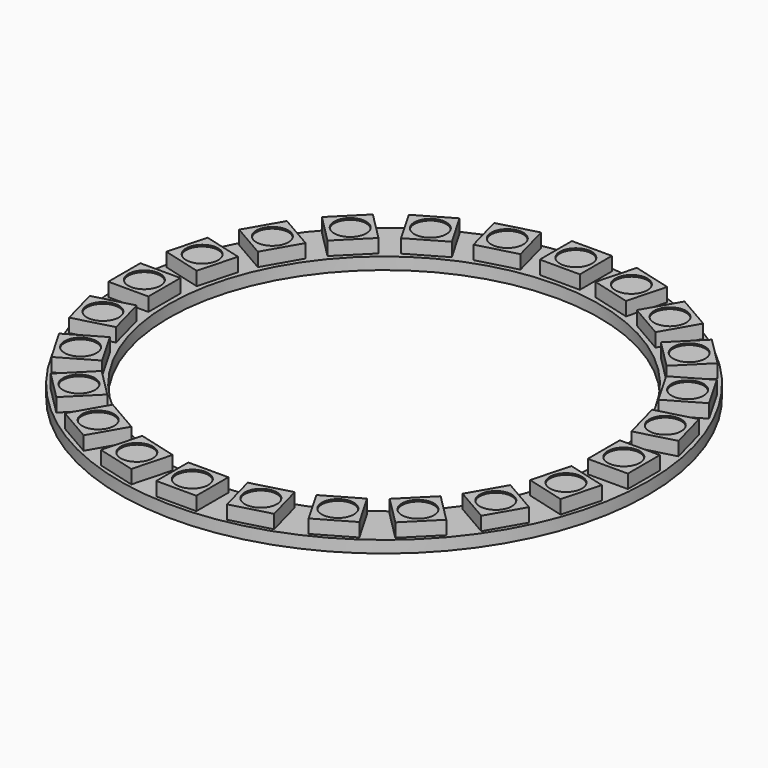
from build123d import *

# Parameters (mm, degrees)
F3_R     = 32.95
F3_W     = 5
F3_H     = 5
F3_R_2   = 26.9
F3_R_3   = 2
F4_DEPTH = 1.5
F5_DEPTH = 1.7
F6_DEPTH = 1.5


with BuildPart() as f4:
    # F3 (on Top) → F4 (new body)
    with BuildSketch(Plane.XY):
        Circle(F3_R)
        Polygon((-17.6246365211, -21.160170427), (-21.160170427, -24.6957043329), (-24.6957043329, -21.160170427), (-21.160170427, -17.6246365211), align=None, mode=Mode.SUBTRACT)
        Polygon((-11.5474364905, -25.0007466988), (-14.0474364905, -29.3308737177), (-18.3775635095, -26.8308737177), (-15.8775635095, -22.5007466988), align=None, mode=Mode.SUBTRACT)
        Polygon((-4.6832977462, -27.1375633987), (-5.9773929717, -31.9671925302), (-10.8070221032, -30.6730973047), (-9.5129268777, -25.8434681732), align=None, mode=Mode.SUBTRACT)
        Polygon((-22.5007466988, -15.8775635095), (-26.8308737177, -18.3775635095), (-29.3308737177, -14.0474364905), (-25.0007466988, -11.5474364905), align=None, mode=Mode.SUBTRACT)
        Polygon((-25.8434681732, -9.5129268777), (-30.6730973047, -10.8070221032), (-31.9671925302, -5.9773929717), (-27.1375633987, -4.6832977462), align=None, mode=Mode.SUBTRACT)
        with Locations((0, -29.925)):
            Rectangle(F3_W, F3_H, mode=Mode.SUBTRACT)
        Polygon((9.5129268777, -25.8434681732), (10.8070221032, -30.6730973047), (5.9773929717, -31.9671925302), (4.6832977462, -27.1375633987), align=None, mode=Mode.SUBTRACT)
        Polygon((15.8775635095, -22.5007466988), (18.3775635095, -26.8308737177), (14.0474364905, -29.3308737177), (11.5474364905, -25.0007466988), align=None, mode=Mode.SUBTRACT)
        Polygon((21.160170427, -17.6246365211), (24.6957043329, -21.160170427), (21.160170427, -24.6957043329), (17.6246365211, -21.160170427), align=None, mode=Mode.SUBTRACT)
        Polygon((25.0007466988, -11.5474364905), (29.3308737177, -14.0474364905), (26.8308737177, -18.3775635095), (22.5007466988, -15.8775635095), align=None, mode=Mode.SUBTRACT)
        Polygon((27.1375633987, -4.6832977462), (31.9671925302, -5.9773929717), (30.6730973047, -10.8070221032), (25.8434681732, -9.5129268777), align=None, mode=Mode.SUBTRACT)
        with Locations((-29.925, 0)):
            Rectangle(F3_W, F3_H, mode=Mode.SUBTRACT)
        Polygon((-27.1375633987, 4.6832977462), (-31.9671925302, 5.9773929717), (-30.6730973047, 10.8070221032), (-25.8434681732, 9.5129268777), align=None, mode=Mode.SUBTRACT)
        Polygon((-25.0007466988, 11.5474364905), (-29.3308737177, 14.0474364905), (-26.8308737177, 18.3775635095), (-22.5007466988, 15.8775635095), align=None, mode=Mode.SUBTRACT)
        Polygon((-21.160170427, 17.6246365211), (-24.6957043329, 21.160170427), (-21.160170427, 24.6957043329), (-17.6246365211, 21.160170427), align=None, mode=Mode.SUBTRACT)
        Polygon((-15.8775635095, 22.5007466988), (-18.3775635095, 26.8308737177), (-14.0474364905, 29.3308737177), (-11.5474364905, 25.0007466988), align=None, mode=Mode.SUBTRACT)
        Polygon((-9.5129268777, 25.8434681732), (-10.8070221032, 30.6730973047), (-5.9773929717, 31.9671925302), (-4.6832977462, 27.1375633987), align=None, mode=Mode.SUBTRACT)
        Circle(F3_R_2, mode=Mode.SUBTRACT)
        with Locations((29.925, 0)):
            Rectangle(F3_W, F3_H, mode=Mode.SUBTRACT)
        Polygon((25.8434681732, 9.5129268777), (30.6730973047, 10.8070221032), (31.9671925302, 5.9773929717), (27.1375633987, 4.6832977462), align=None, mode=Mode.SUBTRACT)
        Polygon((22.5007466988, 15.8775635095), (26.8308737177, 18.3775635095), (29.3308737177, 14.0474364905), (25.0007466988, 11.5474364905), align=None, mode=Mode.SUBTRACT)
        with Locations((0, 29.925)):
            Rectangle(F3_W, F3_H, mode=Mode.SUBTRACT)
        Polygon((4.6832977462, 27.1375633987), (5.9773929717, 31.9671925302), (10.8070221032, 30.6730973047), (9.5129268777, 25.8434681732), align=None, mode=Mode.SUBTRACT)
        Polygon((11.5474364905, 25.0007466988), (14.0474364905, 29.3308737177), (18.3775635095, 26.8308737177), (15.8775635095, 22.5007466988), align=None, mode=Mode.SUBTRACT)
        Polygon((17.6246365211, 21.160170427), (21.160170427, 24.6957043329), (24.6957043329, 21.160170427), (21.160170427, 17.6246365211), align=None, mode=Mode.SUBTRACT)
        Polygon((-21.160170427, 24.6957043329), (-24.6957043329, 21.160170427), (-21.160170427, 17.6246365211), (-17.6246365211, 21.160170427), align=None)
        with Locations((-21.160170427, 21.160170427)):
            Circle(F3_R_3, mode=Mode.SUBTRACT)
        Polygon((-14.0474364905, 29.3308737177), (-18.3775635095, 26.8308737177), (-15.8775635095, 22.5007466988), (-11.5474364905, 25.0007466988), align=None)
        with Locations((-14.9625, 25.9158102082)):
            Circle(F3_R_3, mode=Mode.SUBTRACT)
        Polygon((-5.9773929717, 31.9671925302), (-10.8070221032, 30.6730973047), (-9.5129268777, 25.8434681732), (-4.6832977462, 27.1375633987), align=None)
        with Locations((-7.7451599247, 28.9053303517)):
            Circle(F3_R_3, mode=Mode.SUBTRACT)
        with Locations((0, 29.925)):
            Rectangle(F3_W, F3_H)
        with Locations((0, 29.925)):
            Circle(F3_R_3, mode=Mode.SUBTRACT)
        Polygon((10.8070221032, 30.6730973047), (5.9773929717, 31.9671925302), (4.6832977462, 27.1375633987), (9.5129268777, 25.8434681732), align=None)
        with Locations((7.7451599247, 28.9053303517)):
            Circle(F3_R_3, mode=Mode.SUBTRACT)
        Polygon((18.3775635095, 26.8308737177), (14.0474364905, 29.3308737177), (11.5474364905, 25.0007466988), (15.8775635095, 22.5007466988), align=None)
        with Locations((14.9625, 25.9158102082)):
            Circle(F3_R_3, mode=Mode.SUBTRACT)
        Polygon((24.6957043329, 21.160170427), (21.160170427, 24.6957043329), (17.6246365211, 21.160170427), (21.160170427, 17.6246365211), align=None)
        with Locations((21.160170427, 21.160170427)):
            Circle(F3_R_3, mode=Mode.SUBTRACT)
        Polygon((29.3308737177, 14.0474364905), (26.8308737177, 18.3775635095), (22.5007466988, 15.8775635095), (25.0007466988, 11.5474364905), align=None)
        with Locations((25.9158102082, 14.9625)):
            Circle(F3_R_3, mode=Mode.SUBTRACT)
        Polygon((31.9671925302, 5.9773929717), (30.6730973047, 10.8070221032), (25.8434681732, 9.5129268777), (27.1375633987, 4.6832977462), align=None)
        with Locations((28.9053303517, 7.7451599247)):
            Circle(F3_R_3, mode=Mode.SUBTRACT)
        with Locations((29.925, 0)):
            Rectangle(F3_W, F3_H)
        with Locations((29.925, 0)):
            Circle(F3_R_3, mode=Mode.SUBTRACT)
        Polygon((30.6730973047, -10.8070221032), (31.9671925302, -5.9773929717), (27.1375633987, -4.6832977462), (25.8434681732, -9.5129268777), align=None)
        with Locations((28.9053303517, -7.7451599247)):
            Circle(F3_R_3, mode=Mode.SUBTRACT)
        Polygon((-30.6730973047, 10.8070221032), (-31.9671925302, 5.9773929717), (-27.1375633987, 4.6832977462), (-25.8434681732, 9.5129268777), align=None)
        with Locations((-28.9053303517, 7.7451599247)):
            Circle(F3_R_3, mode=Mode.SUBTRACT)
        Polygon((-26.8308737177, 18.3775635095), (-29.3308737177, 14.0474364905), (-25.0007466988, 11.5474364905), (-22.5007466988, 15.8775635095), align=None)
        with Locations((-25.9158102082, 14.9625)):
            Circle(F3_R_3, mode=Mode.SUBTRACT)
        with Locations((-29.925, 0)):
            Rectangle(F3_W, F3_H)
        with Locations((-29.925, 0)):
            Circle(F3_R_3, mode=Mode.SUBTRACT)
        Polygon((-31.9671925302, -5.9773929717), (-30.6730973047, -10.8070221032), (-25.8434681732, -9.5129268777), (-27.1375633987, -4.6832977462), align=None)
        with Locations((-28.9053303517, -7.7451599247)):
            Circle(F3_R_3, mode=Mode.SUBTRACT)
        Polygon((-29.3308737177, -14.0474364905), (-26.8308737177, -18.3775635095), (-22.5007466988, -15.8775635095), (-25.0007466988, -11.5474364905), align=None)
        with Locations((-25.9158102082, -14.9625)):
            Circle(F3_R_3, mode=Mode.SUBTRACT)
        Polygon((-24.6957043329, -21.160170427), (-21.160170427, -24.6957043329), (-17.6246365211, -21.160170427), (-21.160170427, -17.6246365211), align=None)
        with Locations((-21.160170427, -21.160170427)):
            Circle(F3_R_3, mode=Mode.SUBTRACT)
        Polygon((-18.3775635095, -26.8308737177), (-14.0474364905, -29.3308737177), (-11.5474364905, -25.0007466988), (-15.8775635095, -22.5007466988), align=None)
        with Locations((-14.9625, -25.9158102082)):
            Circle(F3_R_3, mode=Mode.SUBTRACT)
        Polygon((-10.8070221032, -30.6730973047), (-5.9773929717, -31.9671925302), (-4.6832977462, -27.1375633987), (-9.5129268777, -25.8434681732), align=None)
        with Locations((-7.7451599247, -28.9053303517)):
            Circle(F3_R_3, mode=Mode.SUBTRACT)
        with Locations((0, -29.925)):
            Rectangle(F3_W, F3_H)
        with Locations((0, -29.925)):
            Circle(F3_R_3, mode=Mode.SUBTRACT)
        Polygon((5.9773929717, -31.9671925302), (10.8070221032, -30.6730973047), (9.5129268777, -25.8434681732), (4.6832977462, -27.1375633987), align=None)
        with Locations((7.7451599247, -28.9053303517)):
            Circle(F3_R_3, mode=Mode.SUBTRACT)
        Polygon((14.0474364905, -29.3308737177), (18.3775635095, -26.8308737177), (15.8775635095, -22.5007466988), (11.5474364905, -25.0007466988), align=None)
        with Locations((14.9625, -25.9158102082)):
            Circle(F3_R_3, mode=Mode.SUBTRACT)
        Polygon((21.160170427, -24.6957043329), (24.6957043329, -21.160170427), (21.160170427, -17.6246365211), (17.6246365211, -21.160170427), align=None)
        with Locations((21.160170427, -21.160170427)):
            Circle(F3_R_3, mode=Mode.SUBTRACT)
        Polygon((26.8308737177, -18.3775635095), (29.3308737177, -14.0474364905), (25.0007466988, -11.5474364905), (22.5007466988, -15.8775635095), align=None)
        with Locations((25.9158102082, -14.9625)):
            Circle(F3_R_3, mode=Mode.SUBTRACT)
        with Locations((-21.160170427, 21.160170427)):
            Circle(F3_R_3)
        with Locations((-14.9625, 25.9158102082)):
            Circle(F3_R_3)
        with Locations((-7.7451599247, 28.9053303517)):
            Circle(F3_R_3)
        with Locations((0, 29.925)):
            Circle(F3_R_3)
        with Locations((7.7451599247, 28.9053303517)):
            Circle(F3_R_3)
        with Locations((14.9625, 25.9158102082)):
            Circle(F3_R_3)
        with Locations((21.160170427, 21.160170427)):
            Circle(F3_R_3)
        with Locations((25.9158102082, 14.9625)):
            Circle(F3_R_3)
        with Locations((28.9053303517, 7.7451599247)):
            Circle(F3_R_3)
        with Locations((29.925, 0)):
            Circle(F3_R_3)
        with Locations((28.9053303517, -7.7451599247)):
            Circle(F3_R_3)
        with Locations((-28.9053303517, 7.7451599247)):
            Circle(F3_R_3)
        with Locations((-25.9158102082, 14.9625)):
            Circle(F3_R_3)
        with Locations((-29.925, 0)):
            Circle(F3_R_3)
        with Locations((-28.9053303517, -7.7451599247)):
            Circle(F3_R_3)
        with Locations((-25.9158102082, -14.9625)):
            Circle(F3_R_3)
        with Locations((-21.160170427, -21.160170427)):
            Circle(F3_R_3)
        with Locations((-14.9625, -25.9158102082)):
            Circle(F3_R_3)
        with Locations((-7.7451599247, -28.9053303517)):
            Circle(F3_R_3)
        with Locations((0, -29.925)):
            Circle(F3_R_3)
        with Locations((7.7451599247, -28.9053303517)):
            Circle(F3_R_3)
        with Locations((14.9625, -25.9158102082)):
            Circle(F3_R_3)
        with Locations((21.160170427, -21.160170427)):
            Circle(F3_R_3)
        with Locations((25.9158102082, -14.9625)):
            Circle(F3_R_3)
    extrude(amount=-F4_DEPTH)

    # F3 (on Top) → F5 (join)
    with BuildSketch(Plane.XY):
        Polygon((10.8070221032, 30.6730973047), (5.9773929717, 31.9671925302), (4.6832977462, 27.1375633987), (9.5129268777, 25.8434681732), align=None)
        with Locations((7.7451599247, 28.9053303517)):
            Circle(F3_R_3, mode=Mode.SUBTRACT)
        Polygon((18.3775635095, 26.8308737177), (14.0474364905, 29.3308737177), (11.5474364905, 25.0007466988), (15.8775635095, 22.5007466988), align=None)
        with Locations((14.9625, 25.9158102082)):
            Circle(F3_R_3, mode=Mode.SUBTRACT)
        Polygon((24.6957043329, 21.160170427), (21.160170427, 24.6957043329), (17.6246365211, 21.160170427), (21.160170427, 17.6246365211), align=None)
        with Locations((21.160170427, 21.160170427)):
            Circle(F3_R_3, mode=Mode.SUBTRACT)
        Polygon((29.3308737177, 14.0474364905), (26.8308737177, 18.3775635095), (22.5007466988, 15.8775635095), (25.0007466988, 11.5474364905), align=None)
        with Locations((25.9158102082, 14.9625)):
            Circle(F3_R_3, mode=Mode.SUBTRACT)
        Polygon((31.9671925302, 5.9773929717), (30.6730973047, 10.8070221032), (25.8434681732, 9.5129268777), (27.1375633987, 4.6832977462), align=None)
        with Locations((28.9053303517, 7.7451599247)):
            Circle(F3_R_3, mode=Mode.SUBTRACT)
        with Locations((29.925, 0)):
            Rectangle(F3_W, F3_H)
        with Locations((29.925, 0)):
            Circle(F3_R_3, mode=Mode.SUBTRACT)
        Polygon((30.6730973047, -10.8070221032), (31.9671925302, -5.9773929717), (27.1375633987, -4.6832977462), (25.8434681732, -9.5129268777), align=None)
        with Locations((28.9053303517, -7.7451599247)):
            Circle(F3_R_3, mode=Mode.SUBTRACT)
        Polygon((-5.9773929717, 31.9671925302), (-10.8070221032, 30.6730973047), (-9.5129268777, 25.8434681732), (-4.6832977462, 27.1375633987), align=None)
        with Locations((-7.7451599247, 28.9053303517)):
            Circle(F3_R_3, mode=Mode.SUBTRACT)
        with Locations((0, 29.925)):
            Rectangle(F3_W, F3_H)
        with Locations((0, 29.925)):
            Circle(F3_R_3, mode=Mode.SUBTRACT)
        Polygon((-14.0474364905, 29.3308737177), (-18.3775635095, 26.8308737177), (-15.8775635095, 22.5007466988), (-11.5474364905, 25.0007466988), align=None)
        with Locations((-14.9625, 25.9158102082)):
            Circle(F3_R_3, mode=Mode.SUBTRACT)
        Polygon((-21.160170427, 24.6957043329), (-24.6957043329, 21.160170427), (-21.160170427, 17.6246365211), (-17.6246365211, 21.160170427), align=None)
        with Locations((-21.160170427, 21.160170427)):
            Circle(F3_R_3, mode=Mode.SUBTRACT)
        Polygon((-26.8308737177, 18.3775635095), (-29.3308737177, 14.0474364905), (-25.0007466988, 11.5474364905), (-22.5007466988, 15.8775635095), align=None)
        with Locations((-25.9158102082, 14.9625)):
            Circle(F3_R_3, mode=Mode.SUBTRACT)
        Polygon((-30.6730973047, 10.8070221032), (-31.9671925302, 5.9773929717), (-27.1375633987, 4.6832977462), (-25.8434681732, 9.5129268777), align=None)
        with Locations((-28.9053303517, 7.7451599247)):
            Circle(F3_R_3, mode=Mode.SUBTRACT)
        with Locations((-29.925, 0)):
            Rectangle(F3_W, F3_H)
        with Locations((-29.925, 0)):
            Circle(F3_R_3, mode=Mode.SUBTRACT)
        Polygon((-31.9671925302, -5.9773929717), (-30.6730973047, -10.8070221032), (-25.8434681732, -9.5129268777), (-27.1375633987, -4.6832977462), align=None)
        with Locations((-28.9053303517, -7.7451599247)):
            Circle(F3_R_3, mode=Mode.SUBTRACT)
        Polygon((-29.3308737177, -14.0474364905), (-26.8308737177, -18.3775635095), (-22.5007466988, -15.8775635095), (-25.0007466988, -11.5474364905), align=None)
        with Locations((-25.9158102082, -14.9625)):
            Circle(F3_R_3, mode=Mode.SUBTRACT)
        Polygon((-24.6957043329, -21.160170427), (-21.160170427, -24.6957043329), (-17.6246365211, -21.160170427), (-21.160170427, -17.6246365211), align=None)
        with Locations((-21.160170427, -21.160170427)):
            Circle(F3_R_3, mode=Mode.SUBTRACT)
        Polygon((-18.3775635095, -26.8308737177), (-14.0474364905, -29.3308737177), (-11.5474364905, -25.0007466988), (-15.8775635095, -22.5007466988), align=None)
        with Locations((-14.9625, -25.9158102082)):
            Circle(F3_R_3, mode=Mode.SUBTRACT)
        Polygon((-10.8070221032, -30.6730973047), (-5.9773929717, -31.9671925302), (-4.6832977462, -27.1375633987), (-9.5129268777, -25.8434681732), align=None)
        with Locations((-7.7451599247, -28.9053303517)):
            Circle(F3_R_3, mode=Mode.SUBTRACT)
        with Locations((0, -29.925)):
            Rectangle(F3_W, F3_H)
        with Locations((0, -29.925)):
            Circle(F3_R_3, mode=Mode.SUBTRACT)
        Polygon((5.9773929717, -31.9671925302), (10.8070221032, -30.6730973047), (9.5129268777, -25.8434681732), (4.6832977462, -27.1375633987), align=None)
        with Locations((7.7451599247, -28.9053303517)):
            Circle(F3_R_3, mode=Mode.SUBTRACT)
        Polygon((14.0474364905, -29.3308737177), (18.3775635095, -26.8308737177), (15.8775635095, -22.5007466988), (11.5474364905, -25.0007466988), align=None)
        with Locations((14.9625, -25.9158102082)):
            Circle(F3_R_3, mode=Mode.SUBTRACT)
        Polygon((21.160170427, -24.6957043329), (24.6957043329, -21.160170427), (21.160170427, -17.6246365211), (17.6246365211, -21.160170427), align=None)
        with Locations((21.160170427, -21.160170427)):
            Circle(F3_R_3, mode=Mode.SUBTRACT)
        Polygon((26.8308737177, -18.3775635095), (29.3308737177, -14.0474364905), (25.0007466988, -11.5474364905), (22.5007466988, -15.8775635095), align=None)
        with Locations((25.9158102082, -14.9625)):
            Circle(F3_R_3, mode=Mode.SUBTRACT)
    extrude(amount=F5_DEPTH)

    # F3 (on Top) → F6 (join)
    with BuildSketch(Plane.XY):
        with Locations((14.9625, 25.9158102082)):
            Circle(F3_R_3)
        with Locations((7.7451599247, 28.9053303517)):
            Circle(F3_R_3)
        with Locations((0, 29.925)):
            Circle(F3_R_3)
        with Locations((-7.7451599247, 28.9053303517)):
            Circle(F3_R_3)
        with Locations((-14.9625, 25.9158102082)):
            Circle(F3_R_3)
        with Locations((21.160170427, 21.160170427)):
            Circle(F3_R_3)
        with Locations((25.9158102082, 14.9625)):
            Circle(F3_R_3)
        with Locations((28.9053303517, 7.7451599247)):
            Circle(F3_R_3)
        with Locations((29.925, 0)):
            Circle(F3_R_3)
        with Locations((28.9053303517, -7.7451599247)):
            Circle(F3_R_3)
        with Locations((25.9158102082, -14.9625)):
            Circle(F3_R_3)
        with Locations((21.160170427, -21.160170427)):
            Circle(F3_R_3)
        with Locations((-28.9053303517, -7.7451599247)):
            Circle(F3_R_3)
        with Locations((14.9625, -25.9158102082)):
            Circle(F3_R_3)
        with Locations((-21.160170427, 21.160170427)):
            Circle(F3_R_3)
        with Locations((-25.9158102082, 14.9625)):
            Circle(F3_R_3)
        with Locations((-28.9053303517, 7.7451599247)):
            Circle(F3_R_3)
        with Locations((-29.925, 0)):
            Circle(F3_R_3)
        with Locations((-25.9158102082, -14.9625)):
            Circle(F3_R_3)
        with Locations((-21.160170427, -21.160170427)):
            Circle(F3_R_3)
        with Locations((-14.9625, -25.9158102082)):
            Circle(F3_R_3)
        with Locations((-7.7451599247, -28.9053303517)):
            Circle(F3_R_3)
        with Locations((0, -29.925)):
            Circle(F3_R_3)
        with Locations((7.7451599247, -28.9053303517)):
            Circle(F3_R_3)
    extrude(amount=F6_DEPTH)


solid = f4.part
